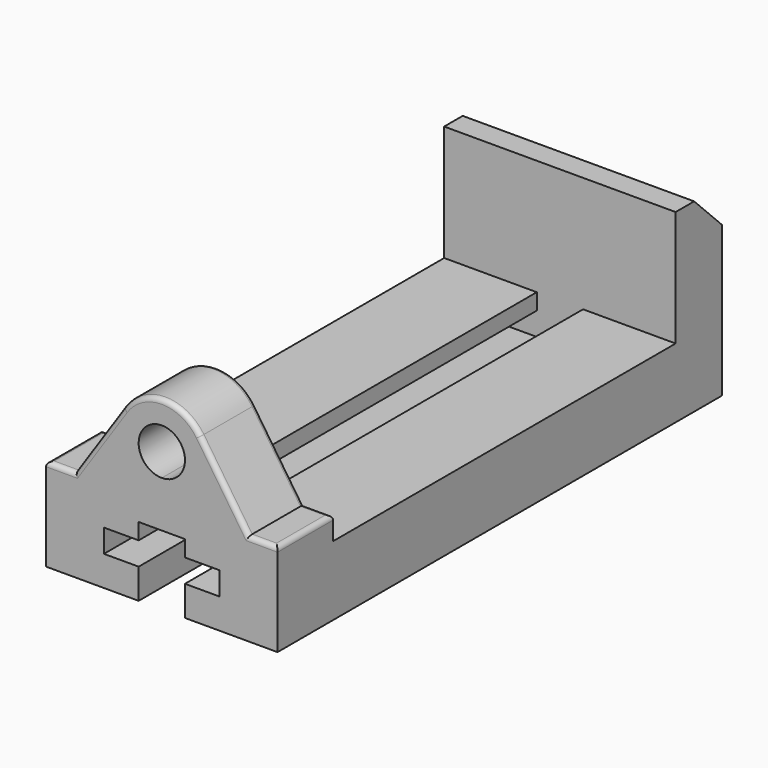
from build123d import *

# Parameters (mm, degrees)
F1_DEPTH  = 38.1
F3_DEPTH  = 273.05
F4_W      = 25.4
F4_H      = 38.1
F4_W_2    = 50.8
F5_DEPTH  = 12.7
F7_DEPTH  = 38.1
F8_R      = 2.54
F10_DEPTH = 63.5
F11_SIZE  = 19.05


with BuildPart() as f1:
    # F0 (on Top) → F1 (new body)
    with BuildSketch(Plane.XY):
        Polygon((-63.5, -152.4), (63.5, -152.4), (63.5, 152.4), (-63.5, 152.4), (-63.5, 114.3), (-63.5, 101.6), (-63.5, 88.9), align=None)
    extrude(amount=F1_DEPTH)

    # F2 (on face) → F3 (cut)
    with BuildSketch(Plane.XZ.offset(152.4)):
        Polygon((-12.7, 0), (0, 0), (12.7, 0), (12.7, 16.51), (31.75, 16.51), (31.75, 29.21), (12.7, 29.21), (12.7, 38.1), (-12.7, 38.1), (-12.7, 29.21), (-31.75, 29.21), (-31.75, 16.51), (-12.7, 16.51), align=None)
    extrude(amount=-F3_DEPTH, mode=Mode.SUBTRACT)

    # F4 (on face) → F5 (join)
    with BuildSketch(Plane.XY.offset(38.1)):
        with Locations((0, -133.35)):
            Rectangle(F4_W, F4_H)
        with Locations((-38.1, -133.35)):
            Rectangle(F4_W_2, F4_H)
        with Locations((38.1, -133.35)):
            Rectangle(F4_W_2, F4_H)
    extrude(amount=F5_DEPTH)

    # F6 (on face) → F7 (join)
    with BuildSketch(Plane.XZ.offset(152.4)):
        with BuildLine():
            Line((-47.625, 50.8), (0, 50.8))
            Line((0, 50.8), (47.625, 50.8))
            Line((47.625, 50.8), (21.0934256055, 90.3501730104))
            ThreePointArc((21.0934256055, 90.3501730104), (0, 101.6), (-21.0934256055, 90.3501730104))
            Line((-21.0934256055, 90.3501730104), (-47.625, 50.8))
        make_face()
        with BuildLine():
            ThreePointArc((12.7, 76.2), (8.9802561211, 67.2197438789), (0, 63.5))
            ThreePointArc((0, 63.5), (-8.9802561211, 85.1802561211), (12.7, 76.2))
        make_face(mode=Mode.SUBTRACT)
    extrude(amount=-F7_DEPTH)

    # F8
    f8_edges = [f1.edges().sort_by_distance(p)[0] for p in [
        (-55.5625, -152.4, 50.8),
        (55.5625, -152.4, 50.8),
        (34.359213, -152.4, 70.575087),
        (63.5, -133.35, 50.8),
        (-55.5625, -114.3, 50.8),
        (55.5625, -114.3, 50.8),
        (34.359213, -114.3, 70.575087),
        (0, -152.4, 101.6),
        (0, -114.3, 101.6),
        (-34.359213, -152.4, 70.575087),
        (-34.359213, -114.3, 70.575087),
        (-63.5, -133.35, 50.8),
    ]]
    fillet(f8_edges, radius=F8_R)

    # F9 (on face) → F10 (join)
    with BuildSketch(Plane.XY.offset(38.1)):
        Polygon((63.5, 152.4), (-63.5, 152.4), (-63.5, 120.65), (-12.7, 120.65), (12.7, 120.65), (63.5, 120.65), align=None)
    extrude(amount=F10_DEPTH)

    # F11
    f11_edges = [f1.edges().sort_by_distance(p)[0] for p in [
        (0, 152.4, 101.6),
    ]]
    chamfer(f11_edges, length=F11_SIZE)


solid = f1.part
